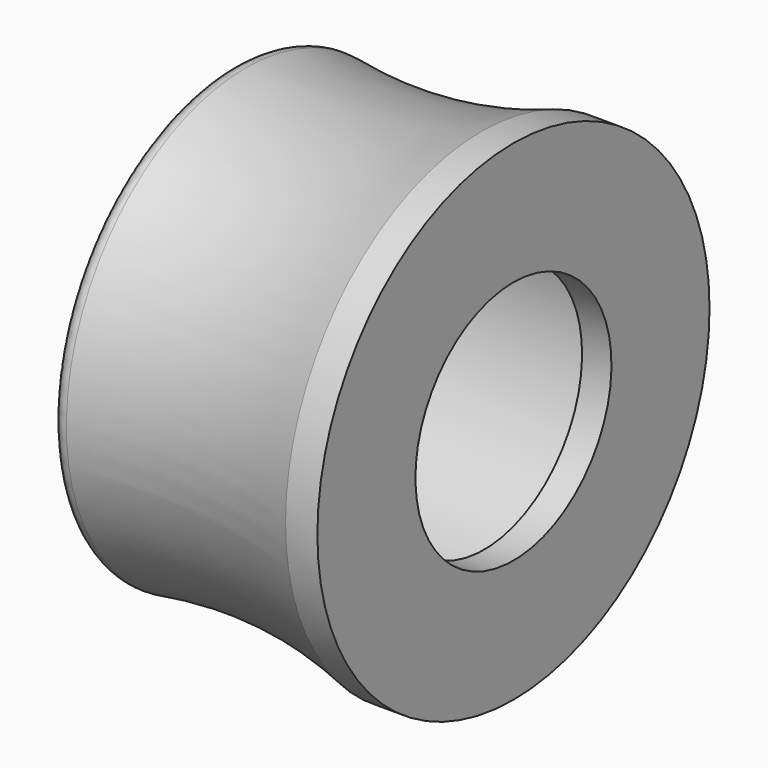
from build123d import *

# Parameters (mm, degrees)
HOLE_D           = 10
HOLE_CBORE_D     = 14.5
HOLE_CBORE_DEPTH = 10.3
FILLET001_R      = 0.5


with BuildPart() as part:
    # Sketch012 → Revolution003 (revolve)
    with BuildSketch(Plane.XZ):
        with BuildLine():
            Line((0, 0), (-11.5, 0))
            Line((-11.5, 0), (-11.5, 9.25))
            ThreePointArc((-11.5, 9.25), (-6.351248, 8.961975), (-1.3, 10))
            Line((0, 10), (-1.3, 10))
            Line((0, 0), (0, 10))
        make_face()
    revolve(axis=Axis((0, 0, 0), (1, 0, 0)))

    # Hole (through all)
    with Locations(Plane(origin=(-11.5, 0, 0), x_dir=(0, 0, -1), z_dir=(-1, 0, 0))):
        with Locations((0, 0)):
            CounterBoreHole(HOLE_D / 2, HOLE_CBORE_D / 2, HOLE_CBORE_DEPTH)

    # Fillet001
    fillet001_edges = [part.edges().sort_by_distance(p)[0] for p in [
        (-11.5, 0, -9.25),
    ]]
    fillet(fillet001_edges, radius=FILLET001_R)


solid = part.part
